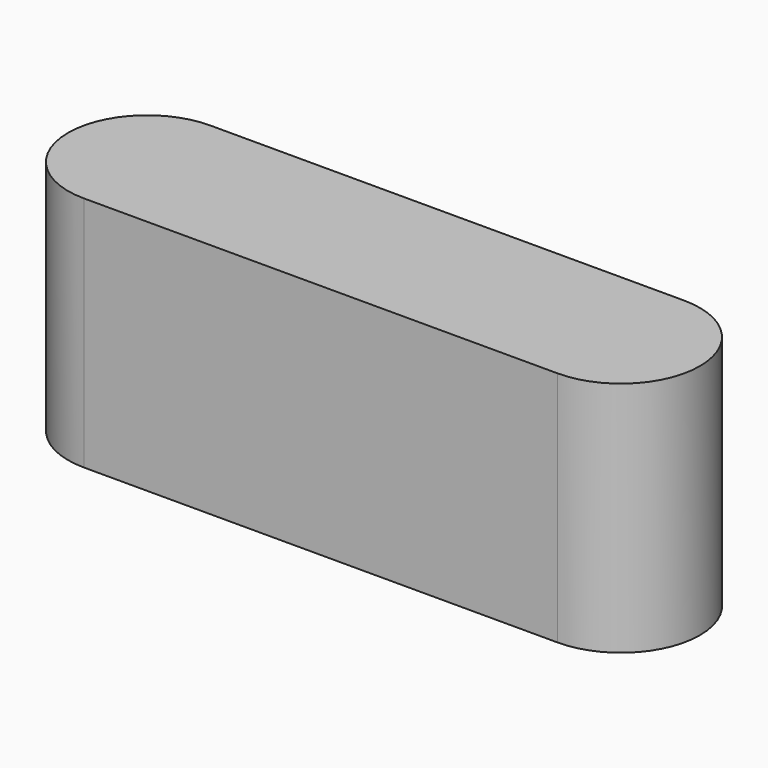
from build123d import *

# Parameters (mm, degrees)
F0_W     = 50.8
F0_H     = 16.933334
F1_DEPTH = 25.4


with BuildPart() as f1:
    # F0 (on Top) → F1 (new body)
    with BuildSketch(Plane.XY):
        Rectangle(F0_W, F0_H)
        with BuildLine():
            Line((-25.4, -8.466667), (-25.4, 8.466667))
            ThreePointArc((-25.4, 8.466667), (-33.866667, 0), (-25.4, -8.466667))
        make_face()
        with BuildLine():
            ThreePointArc((25.4, -8.466667), (33.866667, 0), (25.4, 8.466667))
            Line((25.4, 8.466667), (25.4, -8.466667))
        make_face()
    extrude(amount=F1_DEPTH)


solid = f1.part
